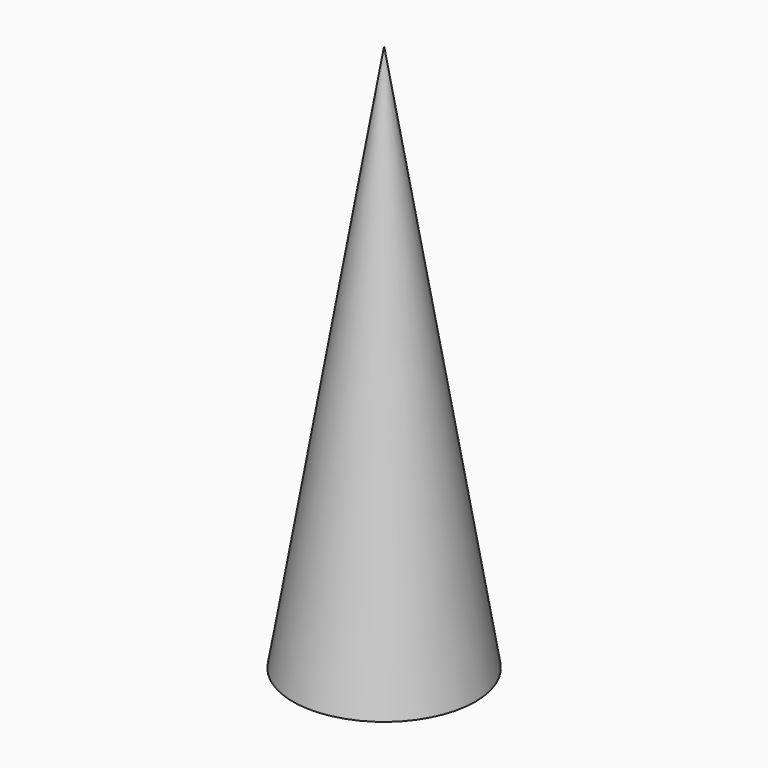
from build123d import *


with BuildPart() as part:
    # Cone → Cone (revolve)
    with BuildSketch(Plane.XZ):
        Polygon((0, 0), (0.25, 0), (0, 1.5), align=None)
    revolve(axis=Axis((0, 0, 0), (0, 0, 1)))


solid = part.part
